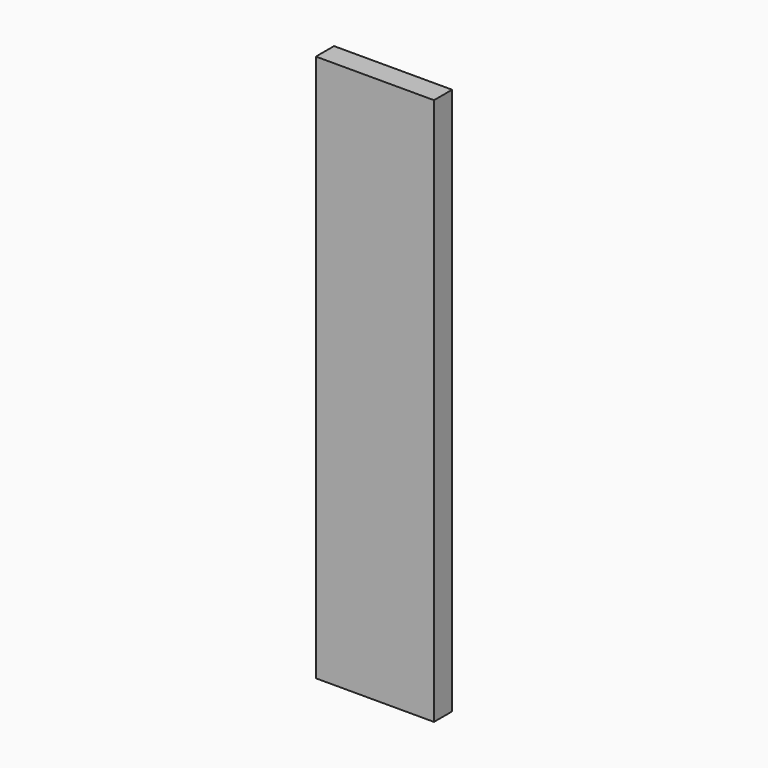
from build123d import *

# Parameters (mm, degrees)
F0_W     = 26
F0_H     = 5
F0_W_2   = 25
F0_H_2   = 4
F1_DEPTH = 0.5
F2_DEPTH = 120


with BuildPart() as f1:
    # F0 (on Top) → F1 (new body)
    with BuildSketch(Plane.XY):
        Rectangle(F0_W, F0_H)
        Rectangle(F0_W_2, F0_H_2, mode=Mode.SUBTRACT)
        Rectangle(F0_W_2, F0_H_2)
    extrude(amount=F1_DEPTH)

    # F0 (on Top) → F2 (join)
    with BuildSketch(Plane.XY):
        Rectangle(F0_W, F0_H)
        Rectangle(F0_W_2, F0_H_2, mode=Mode.SUBTRACT)
    extrude(amount=-F2_DEPTH)


solid = f1.part
